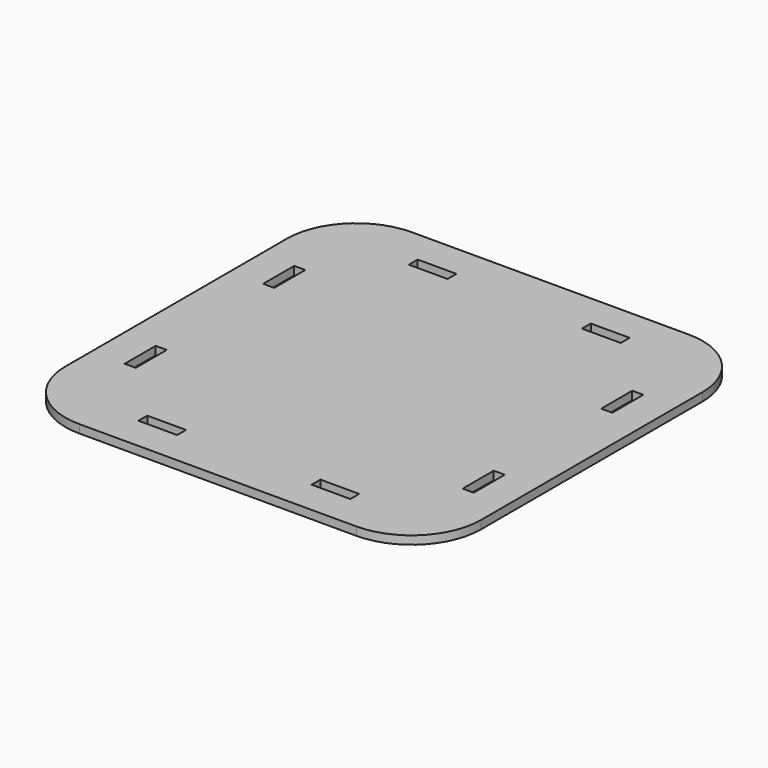
from build123d import *

# Parameters (mm, degrees)
F0_W     = 76.2
F0_H     = 76.2
F0_W_2   = 7.112
F0_H_2   = 2.032
F0_W_3   = 2.032
F0_H_3   = 7.112
F1_DEPTH = 1.524
F2_R     = 12.7


with BuildPart() as f1:
    # F0 (on Top) → F1 (new body)
    with BuildSketch(Plane.XY):
        Rectangle(F0_W, F0_H)
        with Locations((-15.875, -30.988)):
            Rectangle(F0_W_2, F0_H_2, mode=Mode.SUBTRACT)
        with Locations((-30.988, -15.875)):
            Rectangle(F0_W_3, F0_H_3, mode=Mode.SUBTRACT)
        with Locations((15.875, -30.988)):
            Rectangle(F0_W_2, F0_H_2, mode=Mode.SUBTRACT)
        with Locations((30.988, -15.875)):
            Rectangle(F0_W_3, F0_H_3, mode=Mode.SUBTRACT)
        with Locations((-30.988, 15.875)):
            Rectangle(F0_W_3, F0_H_3, mode=Mode.SUBTRACT)
        with Locations((-15.875, 30.988)):
            Rectangle(F0_W_2, F0_H_2, mode=Mode.SUBTRACT)
        with Locations((30.988, 15.875)):
            Rectangle(F0_W_3, F0_H_3, mode=Mode.SUBTRACT)
        with Locations((15.875, 30.988)):
            Rectangle(F0_W_2, F0_H_2, mode=Mode.SUBTRACT)
    extrude(amount=F1_DEPTH)

    # F2
    f2_edges = [f1.edges().sort_by_distance(p)[0] for p in [
        (-38.1, 38.1, 0.762),
        (38.1, 38.1, 0.762),
        (38.1, -38.1, 0.762),
        (-38.1, -38.1, 0.762),
    ]]
    fillet(f2_edges, radius=F2_R)


solid = f1.part
